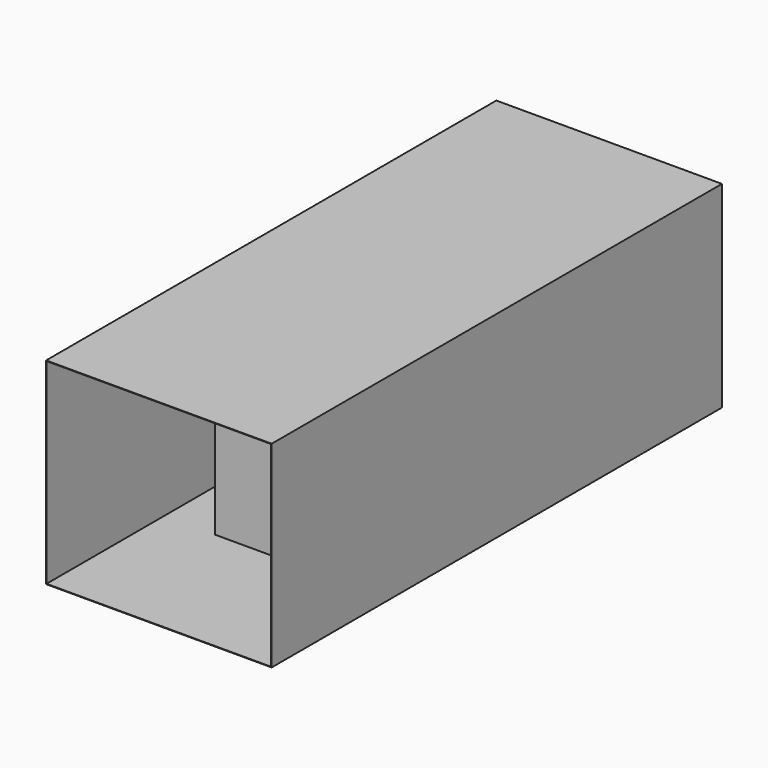
from build123d import *

# Parameters (mm, degrees)
F0_W     = 1200
F0_H     = 1500
F1_DEPTH = 1500
F2_T     = -5
F3_W     = 2405
F3_H     = 2100
F3_W_2   = 2395
F3_H_2   = 2090
F4_DEPTH = 3000


with BuildPart() as f1:
    # F0 (on Front) → F1 (new body, symmetric)
    with BuildSketch(Plane.XZ):
        Rectangle(F0_W, F0_H)
    extrude(amount=F1_DEPTH, both=True)

    # F2
    f2_openings = [f1.faces().sort_by_distance(p)[0] for p in [
        (0, 0, 750),
    ]]
    offset(amount=F2_T, openings=f2_openings)


with BuildPart() as f4:
    # F3 (on Front) → F4 (new body, symmetric)
    with BuildSketch(Plane.XZ):
        with Locations((2.5, 250)):
            Rectangle(F3_W, F3_H)
        with Locations((2.5, 250)):
            Rectangle(F3_W_2, F3_H_2, mode=Mode.SUBTRACT)
    extrude(amount=F4_DEPTH, both=True)


solid = Compound([f1.part, f4.part])
